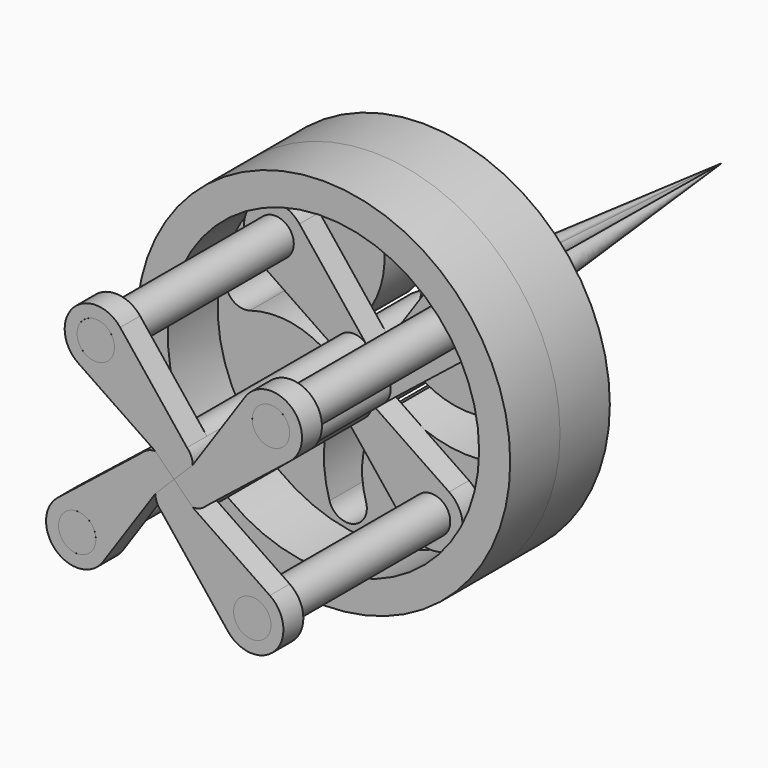
from build123d import *

# Parameters (mm, degrees)
F1_DEPTH  = 25
F6_R      = 1.5
F7_DEPTH  = 2
F8_R      = 1.5
F9_DEPTH  = 2
F10_COUNT = 4
F11_R     = 15
F11_R_2   = 1.5
F11_R_3   = 3
F12_DEPTH = 5
F14_DEPTH = 5
F15_R     = 15
F15_R_2   = 12.5
F16_DEPTH = 5
F17_R     = 1.5
F18_DEPTH = 25


with BuildPart() as f1:
    # F0 (on Front) → F1 (new body)
    with BuildSketch(Plane.XZ):
        with BuildLine():
            Line((-1.4999917505, 1.4999917505), (0, 0))
            Line((0, 0), (1.4999917505, 1.4999917505))
            ThreePointArc((1.4999917505, 1.4999917505), (1.3791702741, 2.0848384318), (1.039738988, 2.5761935699))
            ThreePointArc((1.039738988, 2.5761935699), (-0.5852441716, 2.876135815), (-1.4999917505, 1.4999917505))
        make_face()
    extrude(amount=F1_DEPTH)

    # F0 (on Front) → F4 section 0
    with BuildSketch(Plane.XZ, mode=Mode.PRIVATE) as f4_s0:
        with BuildLine():
            Line((-1.4999917505, 1.4999917505), (0, 0))
            Line((0, 0), (1.4999917505, 1.4999917505))
            ThreePointArc((1.4999917505, 1.4999917505), (1.3791702741, 2.0848384318), (1.039738988, 2.5761935699))
            ThreePointArc((1.039738988, 2.5761935699), (-0.5852441716, 2.876135815), (-1.4999917505, 1.4999917505))
        make_face()
    loft([f4_s0.sketch, Vertex(0, 30, 0)])

    # F6 (on offset) → F7 (join)
    with BuildSketch(Plane.XZ.offset(5)):
        with BuildLine():
            ThreePointArc((-1.4999917505, 1.4999917505), (-0.5852441716, 2.876135815), (1.039738988, 2.5761935699))
            Line((1.039738988, 2.5761935699), (-4.3261145729, 9.3336021735))
            ThreePointArc((-4.3261145729, 9.3336021735), (-8.1155862839, 9.4804426246), (-7.6903143231, 5.7120475118))
            Line((-7.6903143231, 5.7120475118), (-1.4999917505, 1.4999917505))
        make_face()
        with Locations((-6.2839373871, 7.7789543587)):
            Circle(F6_R, mode=Mode.SUBTRACT)
    extrude(amount=F7_DEPTH)

    # F8 (on face) → F9 (join)
    with BuildSketch(Plane.XZ.offset(25)):
        with BuildLine():
            Line((1.039738988, 2.5761935699), (-4.3261145729, 9.3336021735))
            ThreePointArc((-4.3261145729, 9.3336021735), (-8.1155862839, 9.4804426246), (-7.6903143231, 5.7120475118))
            Line((-7.6903143231, 5.7120475118), (-1.4999917505, 1.4999917505))
            ThreePointArc((-1.4999917505, 1.4999917505), (-0.5852441716, 2.876135815), (1.039738988, 2.5761935699))
        make_face()
        with Locations((-6.2839373871, 7.7789543587)):
            Circle(F8_R, mode=Mode.SUBTRACT)
    extrude(amount=-F9_DEPTH)


with BuildPart() as f10_1:
    # F10: instance of F1
    add(f1.part.rotate(Axis((0, 2.5, 0), (0, 1, 0)), 1 * 360 / F10_COUNT))


with BuildPart() as f10_2:
    # F10: instance of F1
    add(f1.part.rotate(Axis((0, 2.5, 0), (0, 1, 0)), 2 * 360 / F10_COUNT))


with BuildPart() as f10_3:
    # F10: instance of F1
    add(f1.part.rotate(Axis((0, 2.5, 0), (0, 1, 0)), 3 * 360 / F10_COUNT))


with BuildPart() as f12:
    # F11 (on Front) → F12 (new body)
    with BuildSketch(Plane.XZ):
        Circle(F11_R)
        with Locations((-7.7789543587, -6.2839373871)):
            Circle(F11_R_2, mode=Mode.SUBTRACT)
        with Locations((6.2839373871, -7.7789543587)):
            Circle(F11_R_2, mode=Mode.SUBTRACT)
        with Locations((-6.2839373871, 7.7789543587)):
            Circle(F11_R_2, mode=Mode.SUBTRACT)
        Circle(F11_R_3, mode=Mode.SUBTRACT)
        with Locations((7.7789543587, 6.2839373871)):
            Circle(F11_R_2, mode=Mode.SUBTRACT)
    extrude(amount=F12_DEPTH)

    # F13 (on face) → F14 (cut)
    with BuildSketch(Plane(origin=(0, 0, 0), x_dir=(-1, 0, 0), z_dir=(0, 1, 0))):
        with BuildLine():
            ThreePointArc((-3.5133332862, 10.7941300917), (-3.8544468576, 6.2653618592), (-2.205460386, 2.0337021625))
            ThreePointArc((-2.205460386, 2.0337021625), (-0.6602411079, 2.9264452292), (1.1186076261, 2.7836517345))
            ThreePointArc((1.1186076261, 2.7836517345), (-0.7041275942, 6.1054467653), (-0.5838393005, 9.8925586776))
            ThreePointArc((-0.5838393005, 9.8925586776), (-1.5978005863, 11.8080913775), (-3.5133332862, 10.7941300917))
        make_face()
        with BuildLine():
            ThreePointArc((-2.0337021625, -2.205460386), (-2.9264452292, -0.6602411079), (-2.7836517345, 1.1186076261))
            ThreePointArc((-2.7836517345, 1.1186076261), (-6.1054467653, -0.7041275942), (-9.8925586776, -0.5838393005))
            ThreePointArc((-9.8925586776, -0.5838393005), (-11.8080913775, -1.5978005863), (-10.7941300917, -3.5133332862))
            ThreePointArc((-10.7941300917, -3.5133332862), (-6.2653618592, -3.8544468576), (-2.0337021625, -2.205460386))
        make_face()
        with BuildLine():
            ThreePointArc((10.7941300917, 3.5133332862), (6.2653618592, 3.8544468576), (2.0337021625, 2.205460386))
            ThreePointArc((2.0337021625, 2.205460386), (2.747827004, 1.203929714), (3, 0))
            ThreePointArc((3, 0), (2.9454163715, -0.5696686741), (2.7836517345, -1.1186076261))
            ThreePointArc((2.7836517345, -1.1186076261), (6.1054467653, 0.7041275942), (9.8925586776, 0.5838393005))
            ThreePointArc((9.8925586776, 0.5838393005), (11.8080913775, 1.5978005863), (10.7941300917, 3.5133332862))
        make_face()
        with BuildLine():
            ThreePointArc((2.205460386, -2.0337021625), (0.6602411079, -2.9264452292), (-1.1186076261, -2.7836517345))
            ThreePointArc((-1.1186076261, -2.7836517345), (0.7041275942, -6.1054467653), (0.5838393005, -9.8925586776))
            ThreePointArc((0.5838393005, -9.8925586776), (1.5978005863, -11.8080913775), (3.5133332862, -10.7941300917))
            ThreePointArc((3.5133332862, -10.7941300917), (3.8544468576, -6.2653618592), (2.205460386, -2.0337021625))
        make_face()
    extrude(amount=-F14_DEPTH, mode=Mode.SUBTRACT)


with BuildPart() as f16:
    # F15 (on face) → F16 (new body)
    with BuildSketch(Plane.XZ.offset(5)):
        Circle(F15_R)
        Circle(F15_R_2, mode=Mode.SUBTRACT)
    extrude(amount=F16_DEPTH)


with BuildPart() as f18:
    # F17 (on face) → F18 (new body)
    with BuildSketch(Plane(origin=(0, 0, 0), x_dir=(-1, 0, 0), z_dir=(0, 1, 0))):
        with Locations((6.2839373871, 7.7789543587)):
            Circle(F17_R)
    extrude(amount=-F18_DEPTH)


with BuildPart() as f18b:
    # F17 (on face) → F18, piece 2 (new body)
    with BuildSketch(Plane(origin=(0, 0, 0), x_dir=(-1, 0, 0), z_dir=(0, 1, 0))):
        with Locations((-7.7789543587, 6.2839373871)):
            Circle(F17_R)
    extrude(amount=-F18_DEPTH)


with BuildPart() as f18c:
    # F17 (on face) → F18, piece 3 (new body)
    with BuildSketch(Plane(origin=(0, 0, 0), x_dir=(-1, 0, 0), z_dir=(0, 1, 0))):
        with Locations((-6.2839373871, -7.7789543587)):
            Circle(F17_R)
    extrude(amount=-F18_DEPTH)


with BuildPart() as f18d:
    # F17 (on face) → F18, piece 4 (new body)
    with BuildSketch(Plane(origin=(0, 0, 0), x_dir=(-1, 0, 0), z_dir=(0, 1, 0))):
        with Locations((7.7789543587, -6.2839373871)):
            Circle(F17_R)
    extrude(amount=-F18_DEPTH)


solid = Compound([f1.part, f10_1.part, f10_2.part, f10_3.part, f12.part, f16.part, f18.part, f18b.part, f18c.part, f18d.part])
